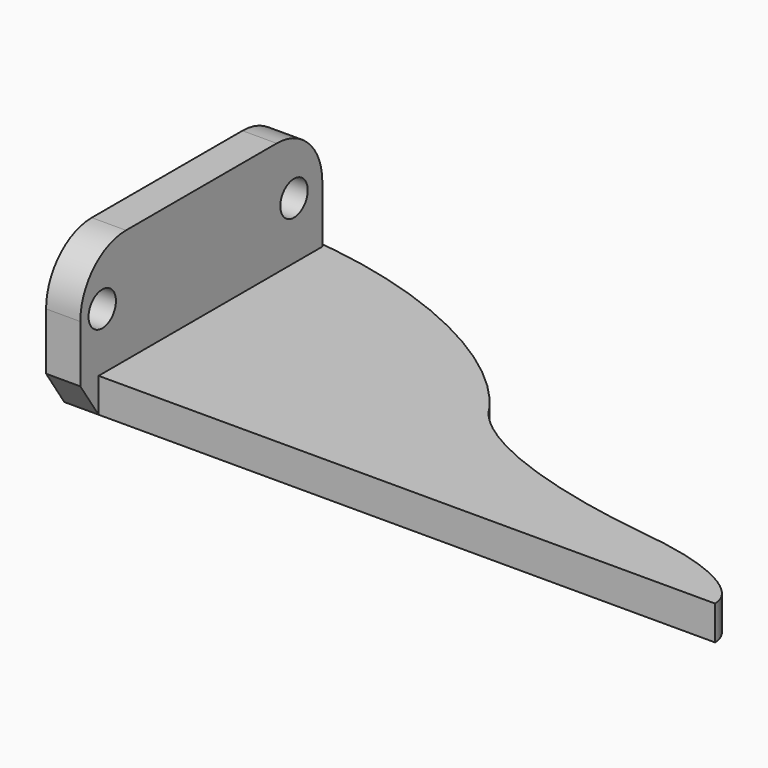
from build123d import *

# Parameters (mm, degrees)
PAD_DEPTH    = 3
SKETCH001_W  = 26.5
SKETCH001_H  = 10
PAD001_DEPTH = 3
SKETCH002_R  = 1.5
POCKET_DEPTH = 57.001
PAD002_DEPTH = 3
FILLET_R     = 5


with BuildPart() as part:
    # Sketch → Pad (new body)
    with BuildSketch(Plane.XY):
        with BuildLine():
            add(Edge.make_bspline(
                [(51.853295, 25.571163), (55.204896, 19.874189), (71.483399, 17.693641)],
                knots=[0.193341, 0.193341, 0.193341, 1.192921, 1.192921, 1.192921], degree=2, weights=[1, 0.877683, 1]))
            add(Edge.make_bspline(
                [(82, 12.6), (82, 16.588456), (71.483399, 17.693641)],
                knots=[0, 0, 0, 1.290026, 1.290026, 1.290026], degree=2, weights=[1, 0.799092, 1]))
            Line((82, 12.6), (25, 12.6))
            Line((25, 12.6), (25, 37.6))
            add(Edge.make_bspline(
                [(51.853295, 25.571163), (43.781474, 36.750026), (25, 37.6)],
                knots=[0.559519, 0.559519, 0.559519, 1.875492, 1.875492, 1.875492], degree=2, weights=[1, 0.791225, 1]))
        make_face()
    extrude(amount=PAD_DEPTH)

    # Sketch001 (on Face4 of Pad) → Pad001 (join)
    with BuildSketch(Plane(origin=(25, 0, 0), x_dir=(0, -1, 0), z_dir=(-1, 0, 0))):
        with Locations((-23.85, 8)):
            Rectangle(SKETCH001_W, SKETCH001_H)
    extrude(amount=-PAD001_DEPTH)

    # Sketch002 (on Face10 of Pad001) → Pocket (cut, through all)
    with BuildSketch(Plane(origin=(25, 0, 0), x_dir=(0, -1, 0), z_dir=(-1, 0, 0))):
        with Locations((-34, 8)):
            Circle(SKETCH002_R)
        with Locations((-13, 8)):
            Circle(SKETCH002_R)
    extrude(amount=-POCKET_DEPTH, mode=Mode.SUBTRACT)

    # Sketch003 (on Face6 of Pocket) → Pad002 (join)
    with BuildSketch(Plane(origin=(25, 0, 0), x_dir=(0, -1, 0), z_dir=(-1, 0, 0))):
        Polygon((-12.6, 0), (-10.6, 3), (-12.6, 3), align=None)
    extrude(amount=-PAD002_DEPTH)

    # Fillet
    fillet_edges = [part.edges().sort_by_distance(p)[0] for p in [
        (26.5, 10.6, 13),
        (26.5, 37.1, 13),
    ]]
    fillet(fillet_edges, radius=FILLET_R)


solid = part.part
